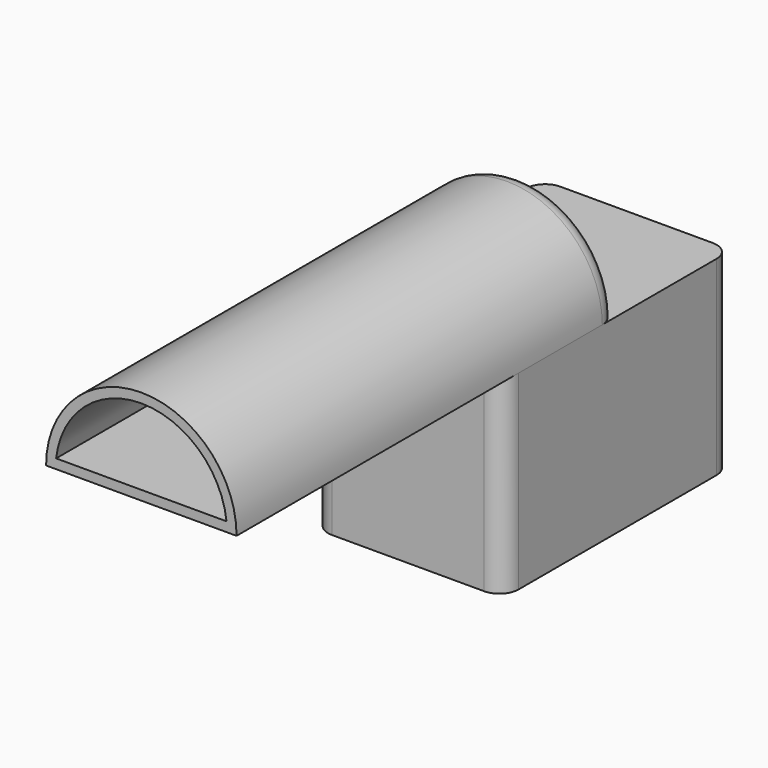
from build123d import *

# Parameters (mm, degrees)
F1_DEPTH = 38.1
F2_DEPTH = 127
F3_T     = -2.54
F4_R     = 5.08
F4_2_R   = 5.08


with BuildPart() as f1:
    # F0 (on Front) → F1 (new body, symmetric)
    with BuildSketch(Plane.XZ):
        with BuildLine():
            Line((25.4, -25.4), (25.4, 25.4))
            ThreePointArc((25.4, 25.4), (0, 0), (-25.4, 25.4))
            Line((-25.4, 25.4), (-25.4, -25.4))
            Line((-25.4, -25.4), (25.4, -25.4))
        make_face()
        with BuildLine():
            ThreePointArc((-25.4, 25.4), (0, 0), (25.4, 25.4))
            Line((25.4, 25.4), (-25.4, 25.4))
        make_face()
    extrude(amount=F1_DEPTH, both=True)

    # F4
    f4_edges = [f1.edges().sort_by_distance(p)[0] for p in [
        (-25.4, -38.1, 0),
        (25.4, -38.1, 0),
        (25.4, 38.1, 0),
        (-25.4, 38.1, 0),
    ]]
    fillet(f4_edges, radius=F4_R)


with BuildPart() as f2:
    # F0 (on Front) → F2 (new body)
    with BuildSketch(Plane.XZ):
        with BuildLine():
            Line((-25.4, 25.4), (25.4, 25.4))
            ThreePointArc((25.4, 25.4), (0, 50.8), (-25.4, 25.4))
        make_face()
    extrude(amount=F2_DEPTH)

    # F3
    f3_openings = [f2.faces().sort_by_distance(p)[0] for p in [
        (0, -127, 36.180095),
    ]]
    offset(amount=F3_T, openings=f3_openings)

    # F4#2
    f4_2_edges = [f2.edges().sort_by_distance(p)[0] for p in [
        (0, 0, 50.8),
    ]]
    fillet(f4_2_edges, radius=F4_2_R)


solid = Compound([f1.part, f2.part])
